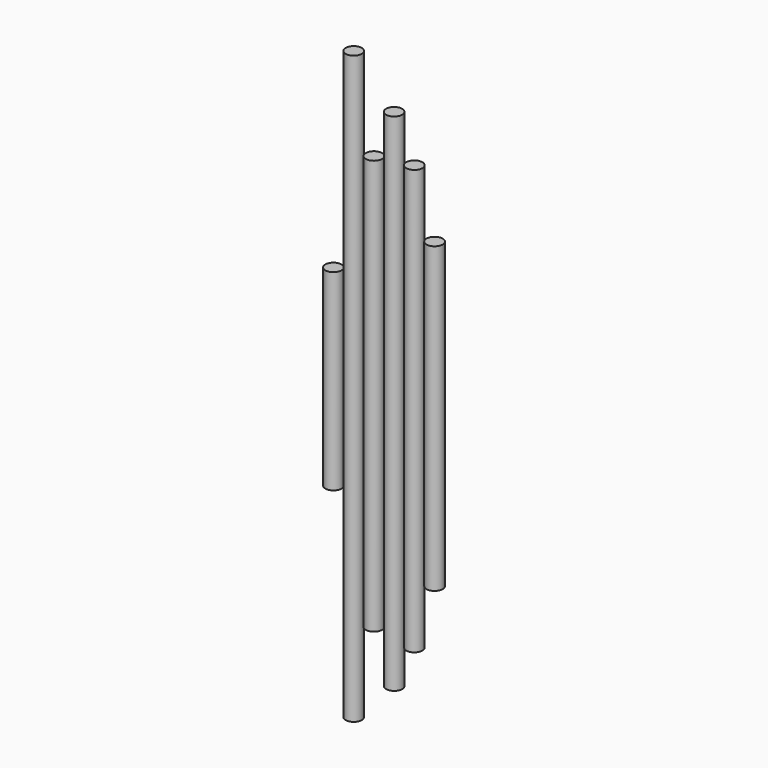
from build123d import *

# Parameters (mm, degrees)
F0_R      = 4
F1_DEPTH  = 105
F2_R      = 4
F3_DEPTH  = 75
F4_R      = 4
F5_DEPTH  = 125
F6_R      = 4
F7_DEPTH  = 102.5
F8_R      = 4
F9_DEPTH  = 145
F10_R     = 4
F11_DEPTH = 47.5


with BuildPart() as f1:
    # F0 (on Top) → F1 (new body, symmetric)
    with BuildSketch(Plane.XY):
        Circle(F0_R)
    extrude(amount=F1_DEPTH, both=True)


with BuildPart() as f3:
    # F2 (on Top) → F3 (new body, symmetric)
    with BuildSketch(Plane.XY):
        with Locations((10, 0)):
            Circle(F2_R)
    extrude(amount=F3_DEPTH, both=True)


with BuildPart() as f5:
    # F4 (on Top) → F5 (new body, symmetric)
    with BuildSketch(Plane.XY):
        with Locations((-10, 0)):
            Circle(F4_R)
    extrude(amount=F5_DEPTH, both=True)


with BuildPart() as f7:
    # F6 (on Top) → F7 (new body, symmetric)
    with BuildSketch(Plane.XY):
        with Locations((-20, 0)):
            Circle(F6_R)
    extrude(amount=F7_DEPTH, both=True)


with BuildPart() as f9:
    # F8 (on Top) → F9 (new body, symmetric)
    with BuildSketch(Plane.XY):
        with Locations((-30, 0)):
            Circle(F8_R)
    extrude(amount=F9_DEPTH, both=True)


with BuildPart() as f11:
    # F10 (on Top) → F11 (new body, symmetric)
    with BuildSketch(Plane.XY):
        with Locations((-40, 0)):
            Circle(F10_R)
    extrude(amount=F11_DEPTH, both=True)


solid = Compound([f1.part, f3.part, f5.part, f7.part, f9.part, f11.part])
